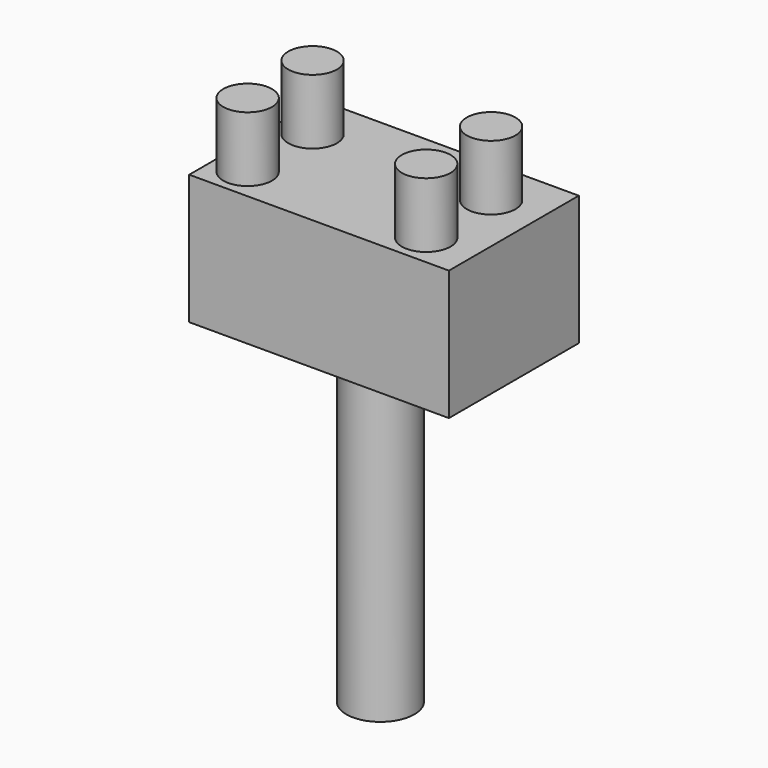
from build123d import *

# Parameters (mm, degrees)
F0_W     = 16
F0_H     = 10
F1_DEPTH = 8
F2_R     = 1.5
F3_DEPTH = 4
F4_W     = 12.605189
F4_H     = 7.011637
F5_DEPTH = 5
F6_R     = 2.097092
F6_R_2   = 1.192292
F7_DEPTH = 25


with BuildPart() as f1:
    # F0 (on Top) → F1 (new body)
    with BuildSketch(Plane.XY):
        with Locations((8, 5)):
            Rectangle(F0_W, F0_H)
    extrude(amount=F1_DEPTH)

    # F2 (on face) → F3 (join)
    with BuildSketch(Plane.XY.offset(8)):
        with Locations((2, 2)):
            Circle(F2_R)
        with Locations((13, 2)):
            Circle(F2_R)
        with Locations((13, 7)):
            Circle(F2_R)
        with Locations((2, 7)):
            Circle(F2_R)
    extrude(amount=F3_DEPTH)

    # F4 (on face) → F5 (cut)
    with BuildSketch(Plane(origin=(0, 0, 0), x_dir=(1, 0, 0), z_dir=(0, 0, -1))):
        with Locations((7.999999, -4.921217)):
            Rectangle(F4_W, F4_H)
    extrude(amount=-F5_DEPTH, mode=Mode.SUBTRACT)

    # F6 (on face) → F7 (join)
    with BuildSketch(Plane(origin=(0, 0, 5), x_dir=(1, 0, 0), z_dir=(0, 0, -1))):
        with Locations((7.887701, -4.859625)):
            Circle(F6_R)
        with Locations((7.887701, -4.859625)):
            Circle(F6_R_2, mode=Mode.SUBTRACT)
    extrude(amount=F7_DEPTH)


solid = f1.part
